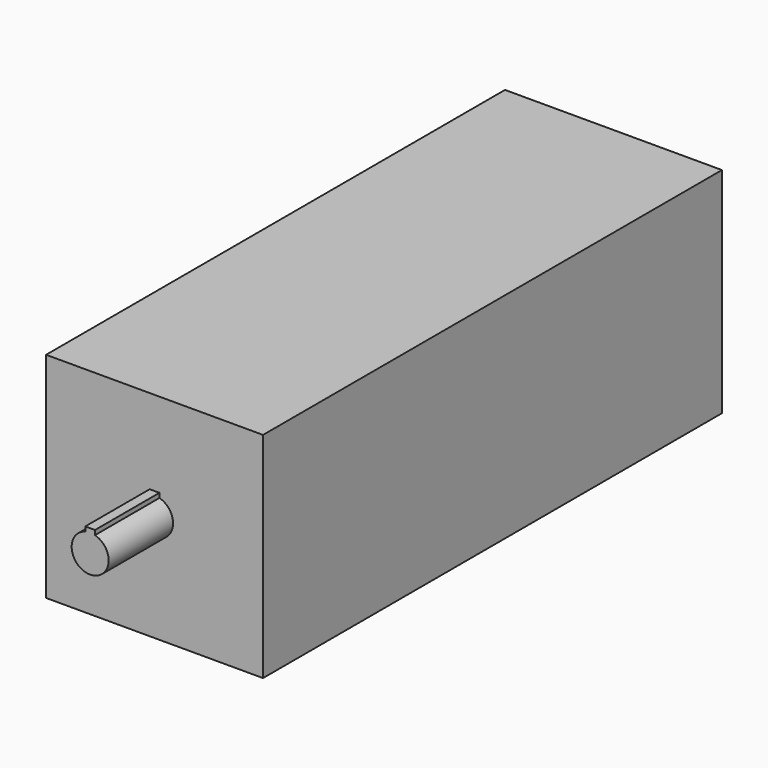
from build123d import *

# Parameters (mm, degrees)
F0_W     = 458.0001
F0_H     = 452.00062
F1_DEPTH = 1211.000118
F3_DEPTH = 169.999914


with BuildPart() as f1:
    # F0 (on Front) → F1 (new body)
    with BuildSketch(Plane.XZ):
        Rectangle(F0_W, F0_H)
    extrude(amount=F1_DEPTH)

    # F2 (on face) → F3 (join)
    with BuildSketch(Plane.XZ.offset(1211.000118)):
        with BuildLine():
            ThreePointArc((-10.259218514, 37.6406649164), (-23.6835473139, -31.0025935447), (39.0137311708, 0))
            ThreePointArc((39.0137311708, 0), (31.0025935447, 23.6835473139), (10.259218514, 37.6406649164))
            Line((10.259218514, 37.6406649164), (10.259218514, 30.7776723057))
            Line((10.259218514, 30.7776723057), (-10.259218514, 30.7776723057))
            Line((-10.259218514, 30.7776723057), (-10.259218514, 37.6406649164))
        make_face()
        with BuildLine():
            Line((10.259218514, 30.7776723057), (10.259218514, 37.6406649164))
            ThreePointArc((10.259218514, 37.6406649164), (0, 39.0137311708), (-10.259218514, 37.6406649164))
            Line((-10.259218514, 37.6406649164), (-10.259218514, 30.7776723057))
            Line((-10.259218514, 30.7776723057), (10.259218514, 30.7776723057))
        make_face()
        with BuildLine():
            ThreePointArc((-10.259218514, 37.6406649164), (0, 39.0137311708), (10.259218514, 37.6406649164))
            Line((10.259218514, 37.6406649164), (10.259218514, 47.2497900359))
            Line((10.259218514, 47.2497900359), (-10.259218514, 47.2497900359))
            Line((-10.259218514, 47.2497900359), (-10.259218514, 37.6406649164))
        make_face()
    extrude(amount=F3_DEPTH)


solid = f1.part
